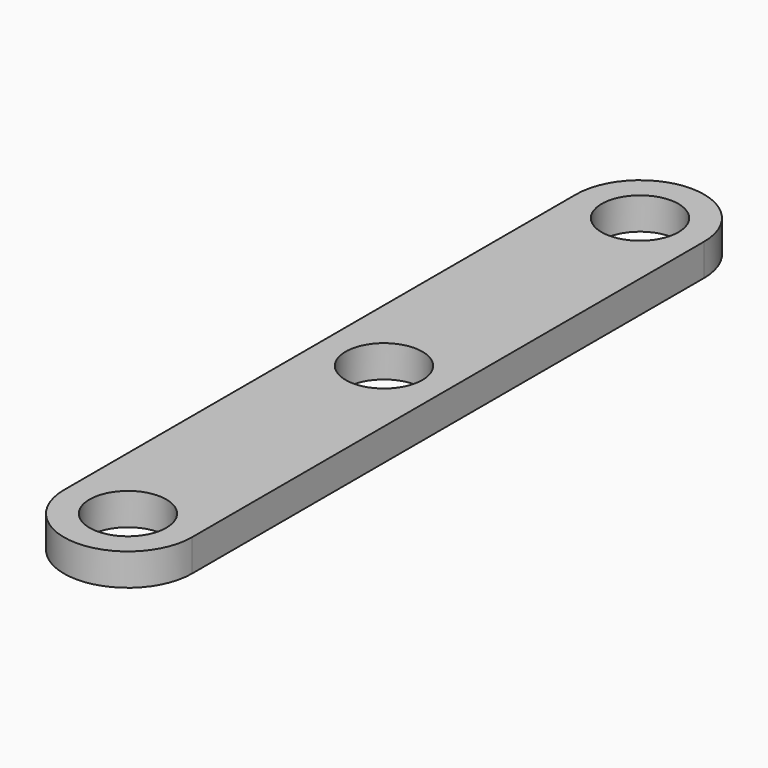
from build123d import *

# Parameters (mm, degrees)
F0_R     = 6
F1_DEPTH = 5


with BuildPart() as f1:
    # F0 (on Top) → F1 (new body)
    with BuildSketch(Plane.XY):
        with BuildLine():
            Line((-10, 100), (-10, 0))
            ThreePointArc((-10, 0), (0, -10), (10, 0))
            Line((10, 0), (10, 100))
            ThreePointArc((10, 100), (0, 110), (-10, 100))
        make_face()
        Circle(F0_R, mode=Mode.SUBTRACT)
        with Locations((0, 50)):
            Circle(F0_R, mode=Mode.SUBTRACT)
        with Locations((0, 100)):
            Circle(F0_R, mode=Mode.SUBTRACT)
    extrude(amount=F1_DEPTH)


solid = f1.part
